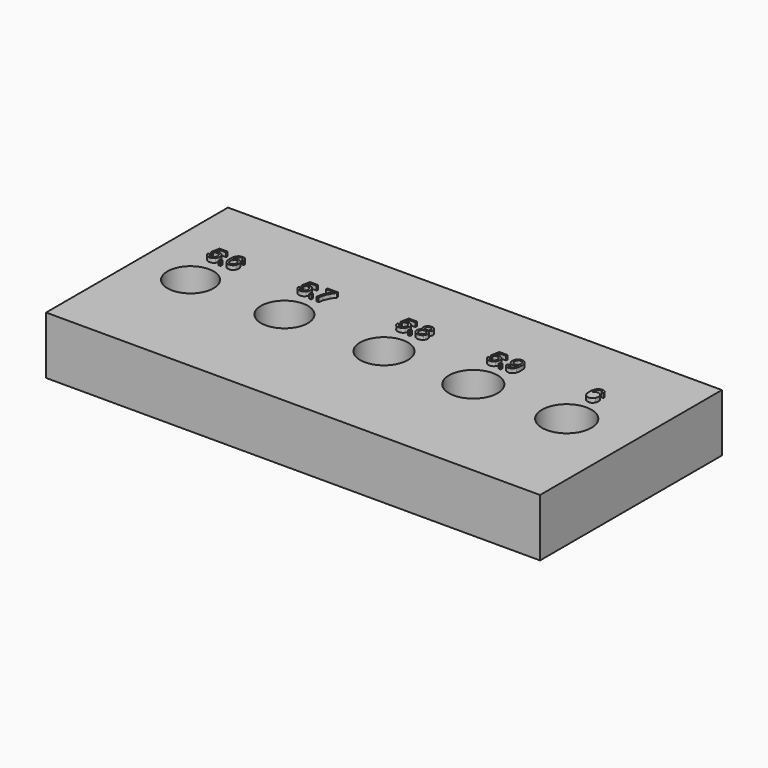
from build123d import *

# Parameters (mm, degrees)
SKETCH_W         = 60
SKETCH_H         = 27.615936
PAD_DEPTH        = 7
SKETCH001_R      = 2.8
SKETCH001_R_2    = 2.85
SKETCH001_R_3    = 2.9
SKETCH001_R_4    = 3
SKETCH001_R_5    = 2.95
POCKET_DEPTH     = 7.001
EXTRUDE_DEPTH    = 0.5
FACE001_W        = 0.27907
FACE001_H        = 0.279342
EXTRUDE001_DEPTH = 0.5
EXTRUDE002_DEPTH = 0.5
EXTRUDE003_DEPTH = 0.5
FACE004_W        = 0.27907
FACE004_H        = 0.279342
EXTRUDE004_DEPTH = 0.5
EXTRUDE005_DEPTH = 0.5
EXTRUDE006_DEPTH = 0.5
FACE007_W        = 0.27907
FACE007_H        = 0.279342
EXTRUDE007_DEPTH = 0.5
EXTRUDE008_DEPTH = 0.5
EXTRUDE009_DEPTH = 0.5
FACE010_W        = 0.27907
FACE010_H        = 0.279342
EXTRUDE010_DEPTH = 0.5
EXTRUDE011_DEPTH = 0.5
EXTRUDE012_DEPTH = 0.5
EXTRUDE013_DEPTH = 0.5


with BuildPart() as body:
    # Sketch → Pad (new body)
    with BuildSketch(Plane.XY):
        Rectangle(SKETCH_W, SKETCH_H)
    extrude(amount=PAD_DEPTH)

    # Sketch001 (on Face6 of Pad) → Pocket (cut, through all)
    with BuildSketch(Plane.XY.offset(7)):
        with Locations((-23.499296, 0)):
            Circle(SKETCH001_R)
        with Locations((-12.092121, 0)):
            Circle(SKETCH001_R_2)
        Circle(SKETCH001_R_3)
        with Locations((22.19277, 0)):
            Circle(SKETCH001_R_4)
        with Locations((10.848969, 0)):
            Circle(SKETCH001_R_5)
    extrude(amount=-POCKET_DEPTH, mode=Mode.SUBTRACT)


with BuildPart() as extrude_body:
    # Face → Extrude (new body)
    with BuildSketch(Plane(origin=(-24.331072, 4.997311, 7), x_dir=(0, 1, 0), z_dir=(0, 0, 1))):
        with BuildLine():
            Line((-0.452253, 0.411388), (-0.474056, 0.668928))
            add(Edge.make_bspline(
                [(-0.879397, 0.472071), (-0.726508, 0.644401), (-0.474056, 0.668928)],
                knots=[0, 0, 0, 1, 1, 1], degree=2))
            add(Edge.make_bspline(
                [(-1.032195, 0.027122), (-1.032195, 0.299651), (-0.879397, 0.472071)],
                knots=[0, 0, 0, 1, 1, 1], degree=2))
            add(Edge.make_bspline(
                [(-0.788282, -0.497496), (-1.032195, -0.305363), (-1.032195, 0.027122)],
                knots=[0, 0, 0, 1, 1, 1], degree=2))
            add(Edge.make_bspline(
                [(-0.316806, -0.655563), (-0.589517, -0.655563), (-0.788282, -0.497496)],
                knots=[0, 0, 0, 1, 1, 1], degree=2))
            add(Edge.make_bspline(
                [(0.151762, -0.475694), (-0.030469, -0.655563), (-0.316806, -0.655563)],
                knots=[0, 0, 0, 1, 1, 1], degree=2))
            add(Edge.make_bspline(
                [(0.334084, -0.034197), (0.334084, -0.295825), (0.151762, -0.475694)],
                knots=[0, 0, 0, 1, 1, 1], degree=2))
            add(Edge.make_bspline(
                [(0.206086, 0.343256), (0.334084, 0.163387), (0.334084, -0.034197)],
                knots=[0, 0, 0, 1, 1, 1], degree=2))
            Line((0.206086, 0.343256), (0.748328, 0.235607))
            Line((0.748328, 0.235607), (0.748328, -0.56154))
            Line((0.748328, -0.56154), (0.979433, -0.56154))
            Line((0.979433, -0.56154), (0.979433, 0.431828))
            Line((0.979433, 0.431828), (-0.048729, 0.625324))
            Line((-0.048729, 0.625324), (-0.078707, 0.395037))
            add(Edge.make_bspline(
                [(0.062918, 0.245146), (0.008321, 0.340531), (-0.078707, 0.395037)],
                knots=[0, 0, 0, 1, 1, 1], degree=2))
            add(Edge.make_bspline(
                [(0.117514, 0.03121), (0.117514, 0.14976), (0.062918, 0.245146)],
                knots=[0, 0, 0, 1, 1, 1], degree=2))
            add(Edge.make_bspline(
                [(-0.004397, -0.277383), (0.117514, -0.15956), (0.117514, 0.03121)],
                knots=[0, 0, 0, 1, 1, 1], degree=2))
            add(Edge.make_bspline(
                [(-0.337064, -0.395298), (-0.126218, -0.395298), (-0.004397, -0.277383)],
                knots=[0, 0, 0, 1, 1, 1], degree=2))
            add(Edge.make_bspline(
                [(-0.693078, -0.27266), (-0.558903, -0.395298), (-0.337064, -0.395298)],
                knots=[0, 0, 0, 1, 1, 1], degree=2))
            add(Edge.make_bspline(
                [(-0.827253, 0.027122), (-0.827253, -0.150022), (-0.693078, -0.27266)],
                knots=[0, 0, 0, 1, 1, 1], degree=2))
            add(Edge.make_bspline(
                [(-0.733231, 0.278576), (-0.827253, 0.174288), (-0.827253, 0.027122)],
                knots=[0, 0, 0, 1, 1, 1], degree=2))
            add(Edge.make_bspline(
                [(-0.452253, 0.411388), (-0.639117, 0.382773), (-0.733231, 0.278576)],
                knots=[0, 0, 0, 1, 1, 1], degree=2))
        make_face()
    extrude(amount=EXTRUDE_DEPTH)


with BuildPart() as extrude001:
    # Face001 → Extrude001 (new body)
    with BuildSketch(Plane(origin=(-23.170376, 4.139535, 7), x_dir=(0, 1, 0), z_dir=(0, 0, 1))):
        Rectangle(FACE001_W, FACE001_H)
    extrude(amount=EXTRUDE001_DEPTH)


with BuildPart() as extrude002:
    # Face002 → Extrude002 (new body)
    with BuildSketch(Plane(origin=(-22.055905, 4.979606, 7), x_dir=(0, 1, 0), z_dir=(0, 0, 1))):
        with BuildLine():
            Line((0.51458, -0.410284), (0.533657, -0.654197))
            add(Edge.make_bspline(
                [(0.899573, -0.473601), (0.767123, -0.624219), (0.533657, -0.654197)],
                knots=[0, 0, 0, 1, 1, 1], degree=2))
            add(Edge.make_bspline(
                [(1.032022, -0.087337), (1.032022, -0.323074), (0.899573, -0.473601)],
                knots=[0, 0, 0, 1, 1, 1], degree=2))
            add(Edge.make_bspline(
                [(0.802371, 0.415479), (1.032022, 0.228797), (1.032022, -0.087337)],
                knots=[0, 0, 0, 1, 1, 1], degree=2))
            add(Edge.make_bspline(
                [(-0.04247, 0.629415), (0.538472, 0.629415), (0.802371, 0.415479)],
                knots=[0, 0, 0, 1, 1, 1], degree=2))
            add(Edge.make_bspline(
                [(-0.788291, 0.435919), (-0.562001, 0.629415), (-0.04247, 0.629415)],
                knots=[0, 0, 0, 1, 1, 1], degree=2))
            add(Edge.make_bspline(
                [(-1.01449, -0.064172), (-1.01449, 0.242423), (-0.788291, 0.435919)],
                knots=[0, 0, 0, 1, 1, 1], degree=2))
            add(Edge.make_bspline(
                [(-0.928189, -0.385756), (-1.01449, -0.244041), (-1.01449, -0.064172)],
                knots=[0, 0, 0, 1, 1, 1], degree=2))
            add(Edge.make_bspline(
                [(-0.679552, -0.608503), (-0.841888, -0.527471), (-0.928189, -0.385756)],
                knots=[0, 0, 0, 1, 1, 1], degree=2))
            add(Edge.make_bspline(
                [(-0.32808, -0.689626), (-0.517124, -0.689626), (-0.679552, -0.608503)],
                knots=[0, 0, 0, 1, 1, 1], degree=2))
            add(Edge.make_bspline(
                [(0.141124, -0.517206), (-0.04038, -0.689626), (-0.32808, -0.689626)],
                knots=[0, 0, 0, 1, 1, 1], degree=2))
            add(Edge.make_bspline(
                [(0.322719, -0.099601), (0.322719, -0.344877), (0.141124, -0.517206)],
                knots=[0, 0, 0, 1, 1, 1], degree=2))
            add(Edge.make_bspline(
                [(0.257312, 0.168841), (0.322719, 0.040752), (0.322719, -0.099601)],
                knots=[0, 0, 0, 1, 1, 1], degree=2))
            add(Edge.make_bspline(
                [(0.057094, 0.385501), (0.191905, 0.296929), (0.257312, 0.168841)],
                knots=[0, 0, 0, 1, 1, 1], degree=2))
            add(Edge.make_bspline(
                [(0.516669, 0.316006), (0.355332, 0.382776), (0.057094, 0.385501)],
                knots=[0, 0, 0, 1, 1, 1], degree=2))
            add(Edge.make_bspline(
                [(0.762036, 0.133412), (0.678006, 0.249237), (0.516669, 0.316006)],
                knots=[0, 0, 0, 1, 1, 1], degree=2))
            add(Edge.make_bspline(
                [(0.82708, -0.072348), (0.82708, 0.04484), (0.762036, 0.133412)],
                knots=[0, 0, 0, 1, 1, 1], degree=2))
            add(Edge.make_bspline(
                [(0.722883, -0.317624), (0.82708, -0.218151), (0.82708, -0.072348)],
                knots=[0, 0, 0, 1, 1, 1], degree=2))
            add(Edge.make_bspline(
                [(0.51458, -0.410284), (0.658021, -0.37758), (0.722883, -0.317624)],
                knots=[0, 0, 0, 1, 1, 1], degree=2))
        make_face()
        with BuildLine():
            add(Edge.make_bspline(
                [(-0.327717, 0.347347), (-0.455079, 0.347347), (-0.571448, 0.293568)],
                knots=[0, 0, 0, 1, 1, 1], degree=2))
            add(Edge.make_bspline(
                [(-0.013672, 0.231522), (-0.133403, 0.347347), (-0.327717, 0.347347)],
                knots=[0, 0, 0, 1, 1, 1], degree=2))
            add(Edge.make_bspline(
                [(0.10615, -0.050545), (0.10615, 0.115697), (-0.013672, 0.231522)],
                knots=[0, 0, 0, 1, 1, 1], degree=2))
            add(Edge.make_bspline(
                [(-0.013672, -0.328525), (0.10615, -0.218151), (0.10615, -0.050545)],
                knots=[0, 0, 0, 1, 1, 1], degree=2))
            add(Edge.make_bspline(
                [(-0.341434, -0.438899), (-0.133403, -0.438899), (-0.013672, -0.328525)],
                knots=[0, 0, 0, 1, 1, 1], degree=2))
            add(Edge.make_bspline(
                [(-0.68364, -0.327162), (-0.557731, -0.438899), (-0.341434, -0.438899)],
                knots=[0, 0, 0, 1, 1, 1], degree=2))
            add(Edge.make_bspline(
                [(-0.809548, -0.060084), (-0.809548, -0.215425), (-0.68364, -0.327162)],
                knots=[0, 0, 0, 1, 1, 1], degree=2))
            add(Edge.make_bspline(
                [(-0.748683, 0.14295), (-0.809548, 0.046202), (-0.809548, -0.060084)],
                knots=[0, 0, 0, 1, 1, 1], degree=2))
            add(Edge.make_bspline(
                [(-0.571448, 0.293568), (-0.687728, 0.239698), (-0.748683, 0.14295)],
                knots=[0, 0, 0, 1, 1, 1], degree=2))
        make_face(mode=Mode.SUBTRACT)
    extrude(amount=EXTRUDE002_DEPTH)


with BuildPart() as extrude003:
    # Face003 → Extrude003 (new body)
    with BuildSketch(Plane(origin=(9.668928, 4.997311, 7), x_dir=(0, 1, 0), z_dir=(0, 0, 1))):
        with BuildLine():
            Line((-0.452253, 0.411388), (-0.474056, 0.668928))
            add(Edge.make_bspline(
                [(-0.879397, 0.472071), (-0.726508, 0.644401), (-0.474056, 0.668928)],
                knots=[0, 0, 0, 1, 1, 1], degree=2))
            add(Edge.make_bspline(
                [(-1.032195, 0.027122), (-1.032195, 0.299651), (-0.879397, 0.472071)],
                knots=[0, 0, 0, 1, 1, 1], degree=2))
            add(Edge.make_bspline(
                [(-0.788282, -0.497496), (-1.032195, -0.305363), (-1.032195, 0.027122)],
                knots=[0, 0, 0, 1, 1, 1], degree=2))
            add(Edge.make_bspline(
                [(-0.316806, -0.655563), (-0.589517, -0.655563), (-0.788282, -0.497496)],
                knots=[0, 0, 0, 1, 1, 1], degree=2))
            add(Edge.make_bspline(
                [(0.151762, -0.475694), (-0.030469, -0.655563), (-0.316806, -0.655563)],
                knots=[0, 0, 0, 1, 1, 1], degree=2))
            add(Edge.make_bspline(
                [(0.334084, -0.034197), (0.334084, -0.295825), (0.151762, -0.475694)],
                knots=[0, 0, 0, 1, 1, 1], degree=2))
            add(Edge.make_bspline(
                [(0.206086, 0.343256), (0.334084, 0.163387), (0.334084, -0.034197)],
                knots=[0, 0, 0, 1, 1, 1], degree=2))
            Line((0.206086, 0.343256), (0.748328, 0.235607))
            Line((0.748328, 0.235607), (0.748328, -0.56154))
            Line((0.748328, -0.56154), (0.979433, -0.56154))
            Line((0.979433, -0.56154), (0.979433, 0.431828))
            Line((0.979433, 0.431828), (-0.048729, 0.625324))
            Line((-0.048729, 0.625324), (-0.078707, 0.395037))
            add(Edge.make_bspline(
                [(0.062918, 0.245146), (0.008321, 0.340531), (-0.078707, 0.395037)],
                knots=[0, 0, 0, 1, 1, 1], degree=2))
            add(Edge.make_bspline(
                [(0.117514, 0.03121), (0.117514, 0.14976), (0.062918, 0.245146)],
                knots=[0, 0, 0, 1, 1, 1], degree=2))
            add(Edge.make_bspline(
                [(-0.004397, -0.277383), (0.117514, -0.15956), (0.117514, 0.03121)],
                knots=[0, 0, 0, 1, 1, 1], degree=2))
            add(Edge.make_bspline(
                [(-0.337064, -0.395298), (-0.126218, -0.395298), (-0.004397, -0.277383)],
                knots=[0, 0, 0, 1, 1, 1], degree=2))
            add(Edge.make_bspline(
                [(-0.693078, -0.27266), (-0.558903, -0.395298), (-0.337064, -0.395298)],
                knots=[0, 0, 0, 1, 1, 1], degree=2))
            add(Edge.make_bspline(
                [(-0.827253, 0.027122), (-0.827253, -0.150022), (-0.693078, -0.27266)],
                knots=[0, 0, 0, 1, 1, 1], degree=2))
            add(Edge.make_bspline(
                [(-0.733231, 0.278576), (-0.827253, 0.174288), (-0.827253, 0.027122)],
                knots=[0, 0, 0, 1, 1, 1], degree=2))
            add(Edge.make_bspline(
                [(-0.452253, 0.411388), (-0.639117, 0.382773), (-0.733231, 0.278576)],
                knots=[0, 0, 0, 1, 1, 1], degree=2))
        make_face()
    extrude(amount=EXTRUDE003_DEPTH)


with BuildPart() as extrude004:
    # Face004 → Extrude004 (new body)
    with BuildSketch(Plane(origin=(10.829624, 4.139535, 7), x_dir=(0, 1, 0), z_dir=(0, 0, 1))):
        Rectangle(FACE004_W, FACE004_H)
    extrude(amount=EXTRUDE004_DEPTH)


with BuildPart() as extrude005:
    # Face005 → Extrude005 (new body)
    with BuildSketch(Plane(origin=(12.008263, 4.999338, 7), x_dir=(0, 1, 0), z_dir=(0, 0, 1))):
        with BuildLine():
            Line((-0.510966, 0.410152), (-0.533041, 0.64589))
            add(Edge.make_bspline(
                [(-0.902772, 0.467383), (-0.771231, 0.615912), (-0.533041, 0.64589)],
                knots=[0, 0, 0, 1, 1, 1], degree=2))
            add(Edge.make_bspline(
                [(-1.034222, 0.08448), (-1.034222, 0.318855), (-0.902772, 0.467383)],
                knots=[0, 0, 0, 1, 1, 1], degree=2))
            add(Edge.make_bspline(
                [(-0.915309, -0.300422), (-1.034222, -0.136269), (-1.034222, 0.08448)],
                knots=[0, 0, 0, 1, 1, 1], degree=2))
            add(Edge.make_bspline(
                [(-0.568742, -0.547788), (-0.796395, -0.464666), (-0.915309, -0.300422)],
                knots=[0, 0, 0, 1, 1, 1], degree=2))
            add(Edge.make_bspline(
                [(0.042995, -0.630909), (-0.34109, -0.630909), (-0.568742, -0.547788)],
                knots=[0, 0, 0, 1, 1, 1], degree=2))
            add(Edge.make_bspline(
                [(0.606948, -0.547061), (0.412181, -0.630909), (0.042995, -0.630909)],
                knots=[0, 0, 0, 1, 1, 1], degree=2))
            add(Edge.make_bspline(
                [(0.907003, -0.301785), (0.801715, -0.463304), (0.606948, -0.547061)],
                knots=[0, 0, 0, 1, 1, 1], degree=2))
            add(Edge.make_bspline(
                [(1.01229, 0.054502), (1.01229, -0.140357), (0.907003, -0.301785)],
                knots=[0, 0, 0, 1, 1, 1], degree=2))
            add(Edge.make_bspline(
                [(0.826516, 0.503539), (1.01229, 0.324305), (1.01229, 0.054502)],
                knots=[0, 0, 0, 1, 1, 1], degree=2))
            add(Edge.make_bspline(
                [(0.336327, 0.682681), (0.640832, 0.682681), (0.826516, 0.503539)],
                knots=[0, 0, 0, 1, 1, 1], degree=2))
            add(Edge.make_bspline(
                [(-0.138873, 0.510988), (0.041359, 0.682681), (0.336327, 0.682681)],
                knots=[0, 0, 0, 1, 1, 1], degree=2))
            add(Edge.make_bspline(
                [(-0.319106, 0.091293), (-0.319106, 0.339295), (-0.138873, 0.510988)],
                knots=[0, 0, 0, 1, 1, 1], degree=2))
            add(Edge.make_bspline(
                [(-0.24625, -0.184597), (-0.319106, -0.057235), (-0.319106, 0.091293)],
                knots=[0, 0, 0, 1, 1, 1], degree=2))
            add(Edge.make_bspline(
                [(-0.056206, -0.385633), (-0.173394, -0.31205), (-0.24625, -0.184597)],
                knots=[0, 0, 0, 1, 1, 1], degree=2))
            add(Edge.make_bspline(
                [(-0.105261, -0.386995), (-0.08891, -0.386995), (-0.056206, -0.385633)],
                knots=[0, 0, 0, 1, 1, 1], degree=2))
            add(Edge.make_bspline(
                [(-0.405225, -0.350204), (-0.257968, -0.386995), (-0.105261, -0.386995)],
                knots=[0, 0, 0, 1, 1, 1], degree=2))
            add(Edge.make_bspline(
                [(-0.639055, -0.258907), (-0.552481, -0.313413), (-0.405225, -0.350204)],
                knots=[0, 0, 0, 1, 1, 1], degree=2))
            add(Edge.make_bspline(
                [(-0.7775, -0.11919), (-0.725628, -0.204401), (-0.639055, -0.258907)],
                knots=[0, 0, 0, 1, 1, 1], degree=2))
            add(Edge.make_bspline(
                [(-0.82928, 0.079029), (-0.82928, -0.03407), (-0.7775, -0.11919)],
                knots=[0, 0, 0, 1, 1, 1], degree=2))
            add(Edge.make_bspline(
                [(-0.75388, 0.29569), (-0.82928, 0.211206), (-0.82928, 0.079029)],
                knots=[0, 0, 0, 1, 1, 1], degree=2))
            add(Edge.make_bspline(
                [(-0.510966, 0.410152), (-0.67839, 0.380174), (-0.75388, 0.29569)],
                knots=[0, 0, 0, 1, 1, 1], degree=2))
        make_face()
        with BuildLine():
            add(Edge.make_bspline(
                [(0.347591, -0.35838), (0.559074, -0.35838), (0.683165, -0.245916)],
                knots=[0, 0, 0, 1, 1, 1], degree=2))
            add(Edge.make_bspline(
                [(0.016832, -0.248642), (0.136199, -0.35838), (0.347591, -0.35838)],
                knots=[0, 0, 0, 1, 1, 1], degree=2))
            add(Edge.make_bspline(
                [(-0.102536, 0.031337), (-0.102536, -0.138994), (0.016832, -0.248642)],
                knots=[0, 0, 0, 1, 1, 1], degree=2))
            add(Edge.make_bspline(
                [(0.016832, 0.315494), (-0.102536, 0.200305), (-0.102536, 0.031337)],
                knots=[0, 0, 0, 1, 1, 1], degree=2))
            add(Edge.make_bspline(
                [(0.327152, 0.430592), (0.136199, 0.430592), (0.016832, 0.315494)],
                knots=[0, 0, 0, 1, 1, 1], degree=2))
            add(Edge.make_bspline(
                [(0.673627, 0.309316), (0.539997, 0.430592), (0.327152, 0.430592)],
                knots=[0, 0, 0, 1, 1, 1], degree=2))
            add(Edge.make_bspline(
                [(0.807348, 0.024523), (0.807348, 0.188041), (0.673627, 0.309316)],
                knots=[0, 0, 0, 1, 1, 1], degree=2))
            add(Edge.make_bspline(
                [(0.683165, -0.245916), (0.807348, -0.133543), (0.807348, 0.024523)],
                knots=[0, 0, 0, 1, 1, 1], degree=2))
        make_face(mode=Mode.SUBTRACT)
    extrude(amount=EXTRUDE005_DEPTH)


with BuildPart() as extrude006:
    # Face006 → Extrude006 (new body)
    with BuildSketch(Plane(origin=(-1.331072, 4.997311, 7), x_dir=(0, 1, 0), z_dir=(0, 0, 1))):
        with BuildLine():
            Line((-0.452253, 0.411388), (-0.474056, 0.668928))
            add(Edge.make_bspline(
                [(-0.879397, 0.472071), (-0.726508, 0.644401), (-0.474056, 0.668928)],
                knots=[0, 0, 0, 1, 1, 1], degree=2))
            add(Edge.make_bspline(
                [(-1.032195, 0.027122), (-1.032195, 0.299651), (-0.879397, 0.472071)],
                knots=[0, 0, 0, 1, 1, 1], degree=2))
            add(Edge.make_bspline(
                [(-0.788282, -0.497496), (-1.032195, -0.305363), (-1.032195, 0.027122)],
                knots=[0, 0, 0, 1, 1, 1], degree=2))
            add(Edge.make_bspline(
                [(-0.316806, -0.655563), (-0.589517, -0.655563), (-0.788282, -0.497496)],
                knots=[0, 0, 0, 1, 1, 1], degree=2))
            add(Edge.make_bspline(
                [(0.151762, -0.475694), (-0.030469, -0.655563), (-0.316806, -0.655563)],
                knots=[0, 0, 0, 1, 1, 1], degree=2))
            add(Edge.make_bspline(
                [(0.334084, -0.034197), (0.334084, -0.295825), (0.151762, -0.475694)],
                knots=[0, 0, 0, 1, 1, 1], degree=2))
            add(Edge.make_bspline(
                [(0.206086, 0.343256), (0.334084, 0.163387), (0.334084, -0.034197)],
                knots=[0, 0, 0, 1, 1, 1], degree=2))
            Line((0.206086, 0.343256), (0.748328, 0.235607))
            Line((0.748328, 0.235607), (0.748328, -0.56154))
            Line((0.748328, -0.56154), (0.979433, -0.56154))
            Line((0.979433, -0.56154), (0.979433, 0.431828))
            Line((0.979433, 0.431828), (-0.048729, 0.625324))
            Line((-0.048729, 0.625324), (-0.078707, 0.395037))
            add(Edge.make_bspline(
                [(0.062918, 0.245146), (0.008321, 0.340531), (-0.078707, 0.395037)],
                knots=[0, 0, 0, 1, 1, 1], degree=2))
            add(Edge.make_bspline(
                [(0.117514, 0.03121), (0.117514, 0.14976), (0.062918, 0.245146)],
                knots=[0, 0, 0, 1, 1, 1], degree=2))
            add(Edge.make_bspline(
                [(-0.004397, -0.277383), (0.117514, -0.15956), (0.117514, 0.03121)],
                knots=[0, 0, 0, 1, 1, 1], degree=2))
            add(Edge.make_bspline(
                [(-0.337064, -0.395298), (-0.126218, -0.395298), (-0.004397, -0.277383)],
                knots=[0, 0, 0, 1, 1, 1], degree=2))
            add(Edge.make_bspline(
                [(-0.693078, -0.27266), (-0.558903, -0.395298), (-0.337064, -0.395298)],
                knots=[0, 0, 0, 1, 1, 1], degree=2))
            add(Edge.make_bspline(
                [(-0.827253, 0.027122), (-0.827253, -0.150022), (-0.693078, -0.27266)],
                knots=[0, 0, 0, 1, 1, 1], degree=2))
            add(Edge.make_bspline(
                [(-0.733231, 0.278576), (-0.827253, 0.174288), (-0.827253, 0.027122)],
                knots=[0, 0, 0, 1, 1, 1], degree=2))
            add(Edge.make_bspline(
                [(-0.452253, 0.411388), (-0.639117, 0.382773), (-0.733231, 0.278576)],
                knots=[0, 0, 0, 1, 1, 1], degree=2))
        make_face()
    extrude(amount=EXTRUDE006_DEPTH)


with BuildPart() as extrude007:
    # Face007 → Extrude007 (new body)
    with BuildSketch(Plane(origin=(-0.170376, 4.139535, 7), x_dir=(0, 1, 0), z_dir=(0, 0, 1))):
        Rectangle(FACE007_W, FACE007_H)
    extrude(amount=EXTRUDE007_DEPTH)


with BuildPart() as extrude008:
    # Face008 → Extrude008 (new body)
    with BuildSketch(Plane(origin=(0.979239, 4.982052, 7), x_dir=(0, 1, 0), z_dir=(0, 0, 1))):
        with BuildLine():
            add(Edge.make_bspline(
                [(0.101978, 0.276204), (0.158119, 0.428821), (0.262225, 0.502404)],
                knots=[0, 0, 0, 1, 1, 1], degree=2))
            add(Edge.make_bspline(
                [(-0.077528, 0.557636), (0.054194, 0.458799), (0.101978, 0.276204)],
                knots=[0, 0, 0, 1, 1, 1], degree=2))
            add(Edge.make_bspline(
                [(-0.40429, 0.656383), (-0.20916, 0.656383), (-0.077528, 0.557636)],
                knots=[0, 0, 0, 1, 1, 1], degree=2))
            add(Edge.make_bspline(
                [(-0.841609, 0.475151), (-0.666282, 0.656383), (-0.40429, 0.656383)],
                knots=[0, 0, 0, 1, 1, 1], degree=2))
            add(Edge.make_bspline(
                [(-1.016936, -0.001775), (-1.016936, 0.293919), (-0.841609, 0.475151)],
                knots=[0, 0, 0, 1, 1, 1], degree=2))
            add(Edge.make_bspline(
                [(-0.842336, -0.478701), (-1.016936, -0.297469), (-1.016936, -0.001775)],
                knots=[0, 0, 0, 1, 1, 1], degree=2))
            add(Edge.make_bspline(
                [(-0.411104, -0.659933), (-0.667644, -0.659933), (-0.842336, -0.478701)],
                knots=[0, 0, 0, 1, 1, 1], degree=2))
            add(Edge.make_bspline(
                [(-0.09179, -0.563821), (-0.225511, -0.659933), (-0.411104, -0.659933)],
                knots=[0, 0, 0, 1, 1, 1], degree=2))
            add(Edge.make_bspline(
                [(0.101978, -0.283843), (0.04193, -0.4678), (-0.09179, -0.563821)],
                knots=[0, 0, 0, 1, 1, 1], degree=2))
            add(Edge.make_bspline(
                [(0.261589, -0.505227), (0.158119, -0.432371), (0.101978, -0.283843)],
                knots=[0, 0, 0, 1, 1, 1], degree=2))
            add(Edge.make_bspline(
                [(0.504776, -0.578174), (0.365059, -0.578174), (0.261589, -0.505227)],
                knots=[0, 0, 0, 1, 1, 1], degree=2))
            add(Edge.make_bspline(
                [(0.876778, -0.418745), (0.724071, -0.578174), (0.504776, -0.578174)],
                knots=[0, 0, 0, 1, 1, 1], degree=2))
            add(Edge.make_bspline(
                [(1.029576, 0.002313), (1.029576, -0.259315), (0.876778, -0.418745)],
                knots=[0, 0, 0, 1, 1, 1], degree=2))
            add(Edge.make_bspline(
                [(0.88023, 0.419282), (1.029576, 0.262578), (1.029576, 0.002313)],
                knots=[0, 0, 0, 1, 1, 1], degree=2))
            add(Edge.make_bspline(
                [(0.51168, 0.575986), (0.730884, 0.575986), (0.88023, 0.419282)],
                knots=[0, 0, 0, 1, 1, 1], degree=2))
            add(Edge.make_bspline(
                [(0.262225, 0.502404), (0.366422, 0.575986), (0.51168, 0.575986)],
                knots=[0, 0, 0, 1, 1, 1], degree=2))
        make_face()
        with BuildLine():
            add(Edge.make_bspline(
                [(-0.40529, 0.404293), (-0.509668, 0.404293), (-0.607325, 0.354602)],
                knots=[0, 0, 0, 1, 1, 1], degree=2))
            add(Edge.make_bspline(
                [(-0.120679, 0.290558), (-0.234505, 0.404293), (-0.40529, 0.404293)],
                knots=[0, 0, 0, 1, 1, 1], degree=2))
            add(Edge.make_bspline(
                [(-0.006761, 0.003675), (-0.006761, 0.176731), (-0.120679, 0.290558)],
                knots=[0, 0, 0, 1, 1, 1], degree=2))
            add(Edge.make_bspline(
                [(-0.122041, -0.291292), (-0.006761, -0.173468), (-0.006761, 0.003675)],
                knots=[0, 0, 0, 1, 1, 1], degree=2))
            add(Edge.make_bspline(
                [(-0.413466, -0.409206), (-0.23723, -0.409206), (-0.122041, -0.291292)],
                knots=[0, 0, 0, 1, 1, 1], degree=2))
            add(Edge.make_bspline(
                [(-0.69953, -0.294744), (-0.586976, -0.409206), (-0.413466, -0.409206)],
                knots=[0, 0, 0, 1, 1, 1], degree=2))
            add(Edge.make_bspline(
                [(-0.811994, -0.0045), (-0.811994, -0.180282), (-0.69953, -0.294744)],
                knots=[0, 0, 0, 1, 1, 1], degree=2))
            add(Edge.make_bspline(
                [(-0.758487, 0.20671), (-0.811994, 0.108599), (-0.811994, -0.0045)],
                knots=[0, 0, 0, 1, 1, 1], degree=2))
            add(Edge.make_bspline(
                [(-0.607325, 0.354602), (-0.70489, 0.30482), (-0.758487, 0.20671)],
                knots=[0, 0, 0, 1, 1, 1], degree=2))
        make_face(mode=Mode.SUBTRACT)
        with BuildLine():
            add(Edge.make_bspline(
                [(0.519583, 0.32526), (0.377959, 0.32526), (0.288024, 0.233962)],
                knots=[0, 0, 0, 1, 1, 1], degree=2))
            add(Edge.make_bspline(
                [(0.734699, 0.2326), (0.644856, 0.32526), (0.519583, 0.32526)],
                knots=[0, 0, 0, 1, 1, 1], degree=2))
            add(Edge.make_bspline(
                [(0.824634, -0.000413), (0.824634, 0.13994), (0.734699, 0.2326)],
                knots=[0, 0, 0, 1, 1, 1], degree=2))
            add(Edge.make_bspline(
                [(0.732701, -0.232698), (0.824634, -0.139402), (0.824634, -0.000413)],
                knots=[0, 0, 0, 1, 1, 1], degree=2))
            add(Edge.make_bspline(
                [(0.505957, -0.326085), (0.640768, -0.326085), (0.732701, -0.232698)],
                knots=[0, 0, 0, 1, 1, 1], degree=2))
            add(Edge.make_bspline(
                [(0.287388, -0.235423), (0.376596, -0.326085), (0.505957, -0.326085)],
                knots=[0, 0, 0, 1, 1, 1], degree=2))
            add(Edge.make_bspline(
                [(0.19818, -0.003138), (0.19818, -0.144853), (0.287388, -0.235423)],
                knots=[0, 0, 0, 1, 1, 1], degree=2))
            add(Edge.make_bspline(
                [(0.288024, 0.233962), (0.19818, 0.142665), (0.19818, -0.003138)],
                knots=[0, 0, 0, 1, 1, 1], degree=2))
        make_face(mode=Mode.SUBTRACT)
    extrude(amount=EXTRUDE008_DEPTH)


with BuildPart() as extrude009:
    # Face009 → Extrude009 (new body)
    with BuildSketch(Plane(origin=(-13.331072, 4.997311, 7), x_dir=(0, 1, 0), z_dir=(0, 0, 1))):
        with BuildLine():
            Line((-0.452253, 0.411388), (-0.474056, 0.668928))
            add(Edge.make_bspline(
                [(-0.879397, 0.472071), (-0.726508, 0.644401), (-0.474056, 0.668928)],
                knots=[0, 0, 0, 1, 1, 1], degree=2))
            add(Edge.make_bspline(
                [(-1.032195, 0.027122), (-1.032195, 0.299651), (-0.879397, 0.472071)],
                knots=[0, 0, 0, 1, 1, 1], degree=2))
            add(Edge.make_bspline(
                [(-0.788282, -0.497496), (-1.032195, -0.305363), (-1.032195, 0.027122)],
                knots=[0, 0, 0, 1, 1, 1], degree=2))
            add(Edge.make_bspline(
                [(-0.316806, -0.655563), (-0.589517, -0.655563), (-0.788282, -0.497496)],
                knots=[0, 0, 0, 1, 1, 1], degree=2))
            add(Edge.make_bspline(
                [(0.151762, -0.475694), (-0.030469, -0.655563), (-0.316806, -0.655563)],
                knots=[0, 0, 0, 1, 1, 1], degree=2))
            add(Edge.make_bspline(
                [(0.334084, -0.034197), (0.334084, -0.295825), (0.151762, -0.475694)],
                knots=[0, 0, 0, 1, 1, 1], degree=2))
            add(Edge.make_bspline(
                [(0.206086, 0.343256), (0.334084, 0.163387), (0.334084, -0.034197)],
                knots=[0, 0, 0, 1, 1, 1], degree=2))
            Line((0.206086, 0.343256), (0.748328, 0.235607))
            Line((0.748328, 0.235607), (0.748328, -0.56154))
            Line((0.748328, -0.56154), (0.979433, -0.56154))
            Line((0.979433, -0.56154), (0.979433, 0.431828))
            Line((0.979433, 0.431828), (-0.048729, 0.625324))
            Line((-0.048729, 0.625324), (-0.078707, 0.395037))
            add(Edge.make_bspline(
                [(0.062918, 0.245146), (0.008321, 0.340531), (-0.078707, 0.395037)],
                knots=[0, 0, 0, 1, 1, 1], degree=2))
            add(Edge.make_bspline(
                [(0.117514, 0.03121), (0.117514, 0.14976), (0.062918, 0.245146)],
                knots=[0, 0, 0, 1, 1, 1], degree=2))
            add(Edge.make_bspline(
                [(-0.004397, -0.277383), (0.117514, -0.15956), (0.117514, 0.03121)],
                knots=[0, 0, 0, 1, 1, 1], degree=2))
            add(Edge.make_bspline(
                [(-0.337064, -0.395298), (-0.126218, -0.395298), (-0.004397, -0.277383)],
                knots=[0, 0, 0, 1, 1, 1], degree=2))
            add(Edge.make_bspline(
                [(-0.693078, -0.27266), (-0.558903, -0.395298), (-0.337064, -0.395298)],
                knots=[0, 0, 0, 1, 1, 1], degree=2))
            add(Edge.make_bspline(
                [(-0.827253, 0.027122), (-0.827253, -0.150022), (-0.693078, -0.27266)],
                knots=[0, 0, 0, 1, 1, 1], degree=2))
            add(Edge.make_bspline(
                [(-0.733231, 0.278576), (-0.827253, 0.174288), (-0.827253, 0.027122)],
                knots=[0, 0, 0, 1, 1, 1], degree=2))
            add(Edge.make_bspline(
                [(-0.452253, 0.411388), (-0.639117, 0.382773), (-0.733231, 0.278576)],
                knots=[0, 0, 0, 1, 1, 1], degree=2))
        make_face()
    extrude(amount=EXTRUDE009_DEPTH)


with BuildPart() as extrude010:
    # Face010 → Extrude010 (new body)
    with BuildSketch(Plane(origin=(-12.170376, 4.139535, 7), x_dir=(0, 1, 0), z_dir=(0, 0, 1))):
        Rectangle(FACE010_W, FACE010_H)
    extrude(amount=EXTRUDE010_DEPTH)


with BuildPart() as extrude011:
    # Face011 → Extrude011 (new body)
    with BuildSketch(Plane(origin=(-11.003891, 5.268362, 7), x_dir=(0, 1, 0), z_dir=(0, 0, 1))):
        with BuildLine():
            Line((0.708382, 0.654176), (0.477277, 0.654176))
            Line((0.477277, 0.654176), (0.477277, -0.324203))
            add(Edge.make_bspline(
                [(-0.04825, 0.028086), (0.263524, -0.137521), (0.477277, -0.324203)],
                knots=[0, 0, 0, 1, 1, 1], degree=2))
            add(Edge.make_bspline(
                [(-0.695688, 0.282174), (-0.359932, 0.193602), (-0.04825, 0.028086)],
                knots=[0, 0, 0, 1, 1, 1], degree=2))
            add(Edge.make_bspline(
                [(-1.268362, 0.374834), (-1.031353, 0.370746), (-0.695688, 0.282174)],
                knots=[0, 0, 0, 1, 1, 1], degree=2))
            Line((-1.268362, 0.374834), (-1.268362, 0.122745))
            add(Edge.make_bspline(
                [(-0.717672, 0.028722), (-0.969125, 0.102305), (-1.268362, 0.122745)],
                knots=[0, 0, 0, 1, 1, 1], degree=2))
            add(Edge.make_bspline(
                [(-0.02354, -0.260795), (-0.361022, -0.073476), (-0.717672, 0.028722)],
                knots=[0, 0, 0, 1, 1, 1], degree=2))
            add(Edge.make_bspline(
                [(0.517611, -0.638974), (0.314032, -0.448204), (-0.02354, -0.260795)],
                knots=[0, 0, 0, 1, 1, 1], degree=2))
            Line((0.517611, -0.638974), (0.708382, -0.638974))
            Line((0.708382, -0.638974), (0.708382, 0.654176))
        make_face()
    extrude(amount=EXTRUDE011_DEPTH)


with BuildPart() as extrude012:
    # Face012 → Extrude012 (new body)
    with BuildSketch(Plane(origin=(21.644963, 4.868552, 7), x_dir=(0, 1, 0), z_dir=(0, 0, 1))):
        with BuildLine():
            Line((0.625634, -0.394735), (0.644711, -0.638649))
            add(Edge.make_bspline(
                [(1.010627, -0.458053), (0.878178, -0.608671), (0.644711, -0.638649)],
                knots=[0, 0, 0, 1, 1, 1], degree=2))
            add(Edge.make_bspline(
                [(1.143076, -0.071788), (1.143076, -0.307526), (1.010627, -0.458053)],
                knots=[0, 0, 0, 1, 1, 1], degree=2))
            add(Edge.make_bspline(
                [(0.913425, 0.431028), (1.143076, 0.244345), (1.143076, -0.071788)],
                knots=[0, 0, 0, 1, 1, 1], degree=2))
            add(Edge.make_bspline(
                [(0.068585, 0.644963), (0.649526, 0.644963), (0.913425, 0.431028)],
                knots=[0, 0, 0, 1, 1, 1], degree=2))
            add(Edge.make_bspline(
                [(-0.677237, 0.451467), (-0.450947, 0.644963), (0.068585, 0.644963)],
                knots=[0, 0, 0, 1, 1, 1], degree=2))
            add(Edge.make_bspline(
                [(-0.903436, -0.048623), (-0.903436, 0.257972), (-0.677237, 0.451467)],
                knots=[0, 0, 0, 1, 1, 1], degree=2))
            add(Edge.make_bspline(
                [(-0.817135, -0.370208), (-0.903436, -0.228493), (-0.903436, -0.048623)],
                knots=[0, 0, 0, 1, 1, 1], degree=2))
            add(Edge.make_bspline(
                [(-0.568498, -0.592955), (-0.730834, -0.511923), (-0.817135, -0.370208)],
                knots=[0, 0, 0, 1, 1, 1], degree=2))
            add(Edge.make_bspline(
                [(-0.217026, -0.674078), (-0.40607, -0.674078), (-0.568498, -0.592955)],
                knots=[0, 0, 0, 1, 1, 1], degree=2))
            add(Edge.make_bspline(
                [(0.252178, -0.501658), (0.070674, -0.674078), (-0.217026, -0.674078)],
                knots=[0, 0, 0, 1, 1, 1], degree=2))
            add(Edge.make_bspline(
                [(0.433774, -0.084052), (0.433774, -0.329328), (0.252178, -0.501658)],
                knots=[0, 0, 0, 1, 1, 1], degree=2))
            add(Edge.make_bspline(
                [(0.368367, 0.184389), (0.433774, 0.0563), (0.433774, -0.084052)],
                knots=[0, 0, 0, 1, 1, 1], degree=2))
            add(Edge.make_bspline(
                [(0.168149, 0.40105), (0.30296, 0.312478), (0.368367, 0.184389)],
                knots=[0, 0, 0, 1, 1, 1], degree=2))
            add(Edge.make_bspline(
                [(0.627723, 0.331555), (0.466386, 0.398324), (0.168149, 0.40105)],
                knots=[0, 0, 0, 1, 1, 1], degree=2))
            add(Edge.make_bspline(
                [(0.87309, 0.14896), (0.789061, 0.264785), (0.627723, 0.331555)],
                knots=[0, 0, 0, 1, 1, 1], degree=2))
            add(Edge.make_bspline(
                [(0.938134, -0.056799), (0.938134, 0.060388), (0.87309, 0.14896)],
                knots=[0, 0, 0, 1, 1, 1], degree=2))
            add(Edge.make_bspline(
                [(0.833937, -0.302075), (0.938134, -0.202602), (0.938134, -0.056799)],
                knots=[0, 0, 0, 1, 1, 1], degree=2))
            add(Edge.make_bspline(
                [(0.625634, -0.394735), (0.769075, -0.362032), (0.833937, -0.302075)],
                knots=[0, 0, 0, 1, 1, 1], degree=2))
        make_face()
    extrude(amount=EXTRUDE012_DEPTH)


with BuildPart() as extrude013:
    # Face013 → Extrude013 (new body)
    with BuildSketch(Plane(origin=(21.678129, 4.631667, 7), x_dir=(0, -1, 0), z_dir=(0, 0, -1))):
        with BuildLine():
            add(Edge.make_bspline(
                [(-0.020222, 0.396061), (0.10714, 0.396061), (0.223509, 0.342282)],
                knots=[0, 0, 0, 1, 1, 1], degree=2))
            add(Edge.make_bspline(
                [(-0.334267, 0.280236), (-0.214536, 0.396061), (-0.020222, 0.396061)],
                knots=[0, 0, 0, 1, 1, 1], degree=2))
            add(Edge.make_bspline(
                [(-0.454089, -0.001831), (-0.454089, 0.164412), (-0.334267, 0.280236)],
                knots=[0, 0, 0, 1, 1, 1], degree=2))
            add(Edge.make_bspline(
                [(-0.334267, -0.279811), (-0.454089, -0.169437), (-0.454089, -0.001831)],
                knots=[0, 0, 0, 1, 1, 1], degree=2))
            add(Edge.make_bspline(
                [(-0.006505, -0.390185), (-0.214536, -0.390185), (-0.334267, -0.279811)],
                knots=[0, 0, 0, 1, 1, 1], degree=2))
            add(Edge.make_bspline(
                [(0.335701, -0.278448), (0.209792, -0.390185), (-0.006505, -0.390185)],
                knots=[0, 0, 0, 1, 1, 1], degree=2))
            add(Edge.make_bspline(
                [(0.461609, -0.01137), (0.461609, -0.166711), (0.335701, -0.278448)],
                knots=[0, 0, 0, 1, 1, 1], degree=2))
            add(Edge.make_bspline(
                [(0.400744, 0.191664), (0.461609, 0.094917), (0.461609, -0.01137)],
                knots=[0, 0, 0, 1, 1, 1], degree=2))
            add(Edge.make_bspline(
                [(0.223509, 0.342282), (0.339789, 0.288412), (0.400744, 0.191664)],
                knots=[0, 0, 0, 1, 1, 1], degree=2))
        make_face()
    extrude(amount=EXTRUDE013_DEPTH)


solid = Compound([body.part, extrude_body.part, extrude001.part, extrude002.part, extrude003.part, extrude004.part, extrude005.part, extrude006.part, extrude007.part, extrude008.part, extrude009.part, extrude010.part, extrude011.part, extrude012.part, extrude013.part])
